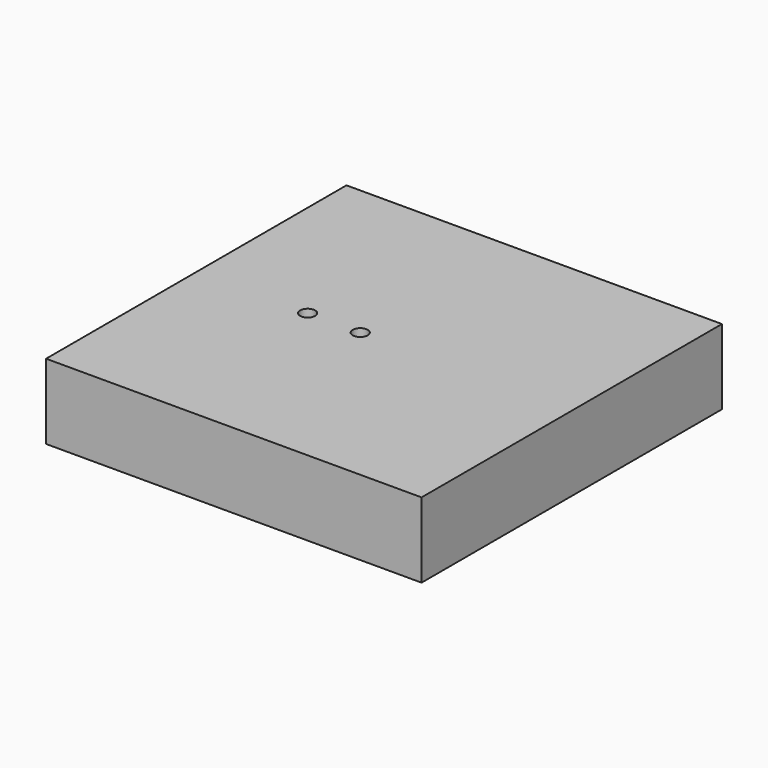
from build123d import *

# Parameters (mm, degrees)
F0_W     = 63.5
F0_H     = 63.5
F0_R     = 1.27
F1_DEPTH = 12.7
F2_SIZE  = 1.524


with BuildPart() as f1:
    # F0 (on Top) → F1 (new body)
    with BuildSketch(Plane.XY):
        Rectangle(F0_W, F0_H)
        with Locations((-12.913746, 0)):
            Circle(F0_R, mode=Mode.SUBTRACT)
        with Locations((-4.023746, 0)):
            Circle(F0_R, mode=Mode.SUBTRACT)
    extrude(amount=F1_DEPTH)

    # F2
    f2_edges = [f1.edges().sort_by_distance(p)[0] for p in [
        (-14.183746, 0, 0),
        (-5.293746, 0, 0),
    ]]
    chamfer(f2_edges, length=F2_SIZE)


solid = f1.part
